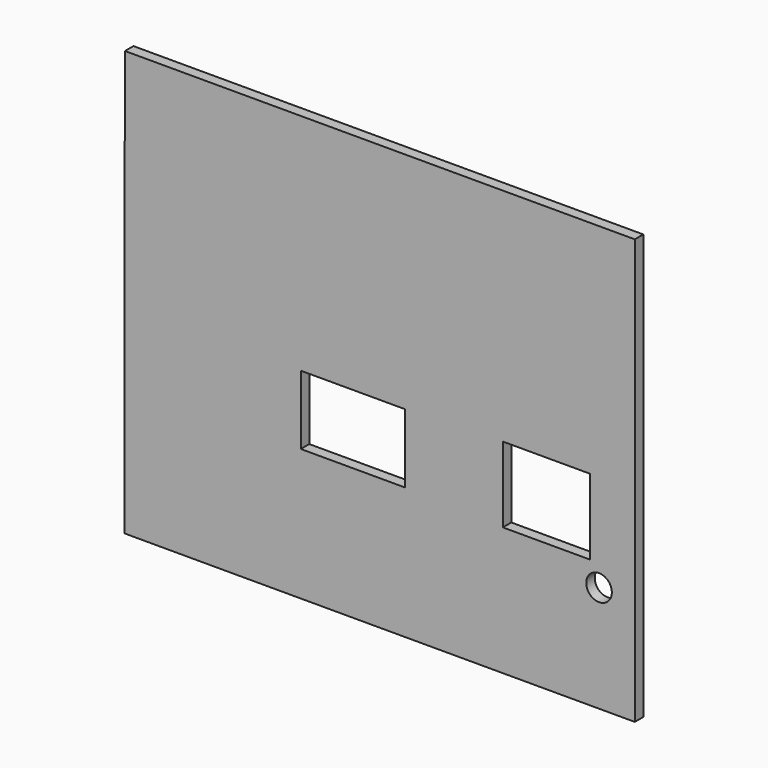
from build123d import *

# Parameters (mm, degrees)
F0_W     = 62.291438
F0_H     = 41.213639
F0_W_2   = 97.35938
F0_H_2   = 154.007825
F0_R     = 7.65318
F0_W_3   = 52.04163
F0_H_3   = 45.17841
F1_DEPTH = 6.35


with BuildPart() as f1:
    # F0 (on Front) → F1 (new body)
    with BuildSketch(Plane.XZ):
        Polygon((151.493805, 99.992175), (-153.306195, 99.992175), (-153.458426, 43.937002), (-153.458426, -154.007825), (54.134425, -154.007825), (54.134425, 0), (151.493805, 0), align=None)
        with Locations((-17.055792, -54.690691)):
            Rectangle(F0_W, F0_H, mode=Mode.SUBTRACT)
        with Locations((102.814115, -77.003912)):
            Rectangle(F0_W_2, F0_H_2)
        with Locations((130.116299, -90.2858)):
            Circle(F0_R, mode=Mode.SUBTRACT)
        with Locations((98.637318, -54.690691)):
            Rectangle(F0_W_3, F0_H_3, mode=Mode.SUBTRACT)
    extrude(amount=F1_DEPTH)


solid = f1.part
